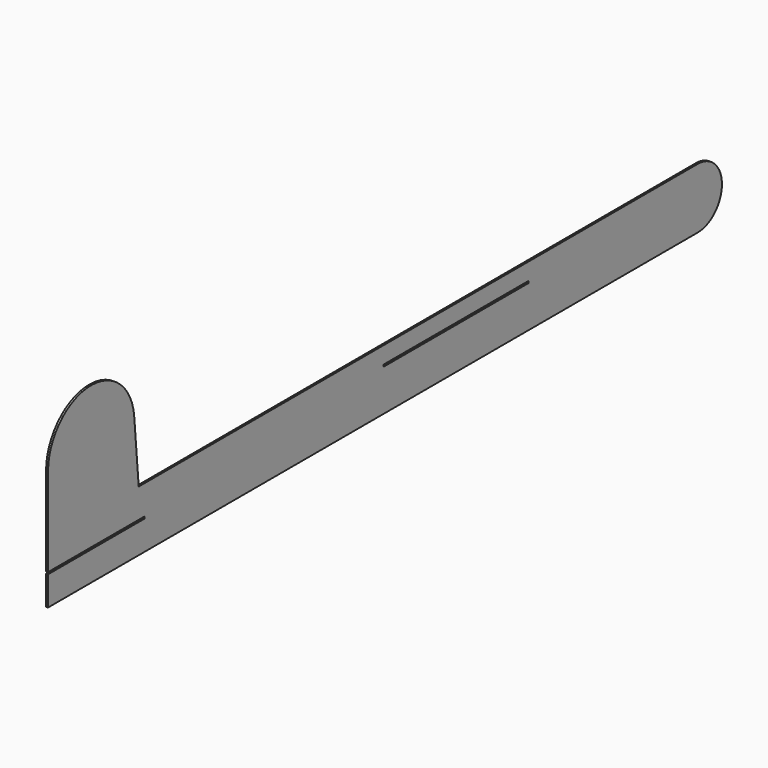
from build123d import *

# Parameters (mm, degrees)
F1_DEPTH = 1.651
F2_W     = 152.4
F2_H     = 1.651
F2_W_2   = 101.6
F3_DEPTH = 12.7


with BuildPart() as f1:
    # F0 (on Right) → F1 (new body)
    with BuildSketch(Plane.YZ):
        with BuildLine():
            Line((341.3125, 25.4), (-246.0625, 25.4))
            Line((-246.0625, 25.4), (-250.773522, 79.247232))
            ThreePointArc((-250.773522, 79.247232), (-297.935107, 120.606831), (-341.3125, 75.294215))
            Line((-341.3125, 75.294215), (-341.3125, 25.4))
            Line((-341.3125, 25.4), (-341.3125, -25.4))
            Line((-341.3125, -25.4), (341.3125, -25.4))
            ThreePointArc((341.3125, -25.4), (366.7125, 0), (341.3125, 25.4))
        make_face()
    extrude(amount=F1_DEPTH)

    # F2 (on face) → F3 (cut, symmetric)
    with BuildSketch(Plane.YZ):
        with Locations((87.3125, 10.282616)):
            Rectangle(F2_W, F2_H)
        with Locations((-290.5125, 0)):
            Rectangle(F2_W_2, F2_H)
    extrude(amount=F3_DEPTH, both=True, mode=Mode.SUBTRACT)


solid = f1.part
